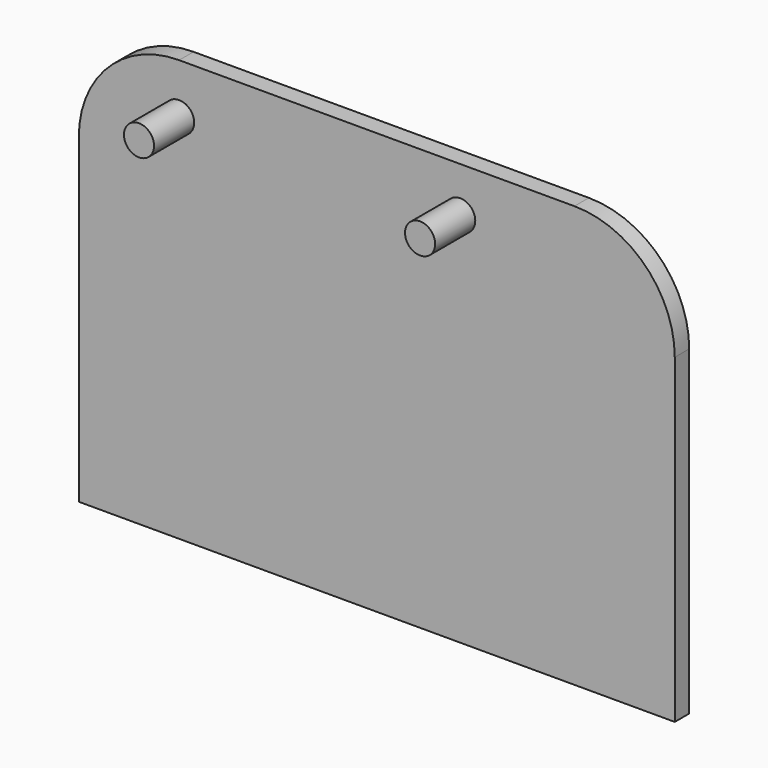
from build123d import *

# Parameters (mm, degrees)
F1_DEPTH = 9
F2_R     = 7.5
F3_DEPTH = 25


with BuildPart() as f1:
    # F0 (on Front) → F1 (new body)
    with BuildSketch(Plane.XZ):
        with BuildLine():
            Line((55.844064, 84.823276), (-141.155936, 84.823276))
            ThreePointArc((-141.155936, 84.823276), (-176.511275, 70.178615), (-191.155936, 34.823276))
            Line((-191.155936, 34.823276), (-191.155936, -125.176724))
            Line((-191.155936, -125.176724), (105.844064, -125.176724))
            Line((105.844064, -125.176724), (105.844064, 34.823276))
            ThreePointArc((105.844064, 34.823276), (91.199404, 70.178615), (55.844064, 84.823276))
        make_face()
    extrude(amount=F1_DEPTH)

    # F2 (on face) → F3 (join)
    with BuildSketch(Plane.XZ.offset(9)):
        with Locations((-141.155936, 59.823276)):
            Circle(F2_R)
        with Locations((-1.070937, 62.323276)):
            Circle(F2_R)
    extrude(amount=F3_DEPTH)


solid = f1.part
